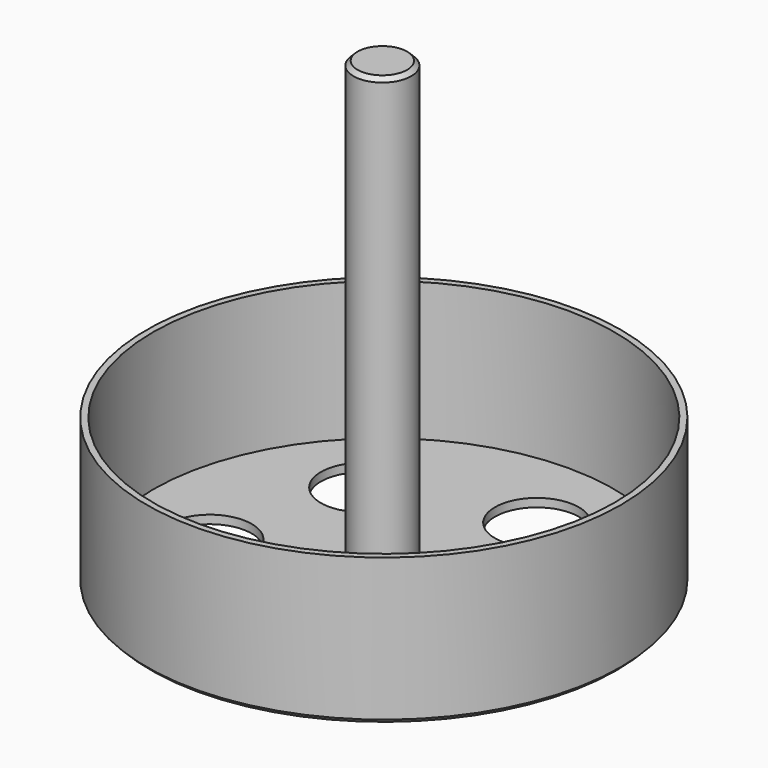
from build123d import *

# Parameters (mm, degrees)
SKETCH_R           = 56.5
PAD_DEPTH          = 35
SKETCH001_R        = 55
POCKET_DEPTH       = 33
SKETCH002_R        = 6.9
PAD001_DEPTH       = 110
CHAMFER_SIZE       = 1
CHAMFER001_SIZE    = 1
SKETCH006_R        = 10
POCKET002_DEPTH    = 5
POLARPATTERN_COUNT = 6


with BuildPart() as part:
    # Sketch → Pad (new body)
    with BuildSketch(Plane.XY):
        Circle(SKETCH_R)
    extrude(amount=PAD_DEPTH)

    # Sketch001 (on Face3 of Pad) → Pocket (cut)
    with BuildSketch(Plane.XY.offset(35)):
        Circle(SKETCH001_R)
    extrude(amount=-POCKET_DEPTH, mode=Mode.SUBTRACT)

    # Sketch002 → Pad001 (join)
    with BuildSketch(Plane.XY):
        with Locations((0, -0.437585)):
            Circle(SKETCH002_R)
    extrude(amount=PAD001_DEPTH)

    # Chamfer
    chamfer_edges = [part.edges().sort_by_distance(p)[0] for p in [
        (-6.9, -0.437585, 110),
    ]]
    chamfer(chamfer_edges, length=CHAMFER_SIZE)

    # Chamfer001
    chamfer001_edges = [part.edges().sort_by_distance(p)[0] for p in [
        (-56.5, 0, 0),
    ]]
    chamfer(chamfer001_edges, length=CHAMFER001_SIZE)

    # Sketch006 (on Face6 of Pad001) → Pocket002 (cut)
    with BuildSketch(Plane.XY.offset(2)):
        with Locations((-25, 25)):
            Circle(SKETCH006_R)
    pocket002 = extrude(amount=-POCKET002_DEPTH, mode=Mode.SUBTRACT)

    # PolarPattern: Pocket002 ×6 about axis
    polarpattern_axis = Axis((0, 0, 2), (0, 0, 1))
    for i in range(1, POLARPATTERN_COUNT):
        add(pocket002.rotate(polarpattern_axis, i * 360 / POLARPATTERN_COUNT), mode=Mode.SUBTRACT)


solid = part.part
